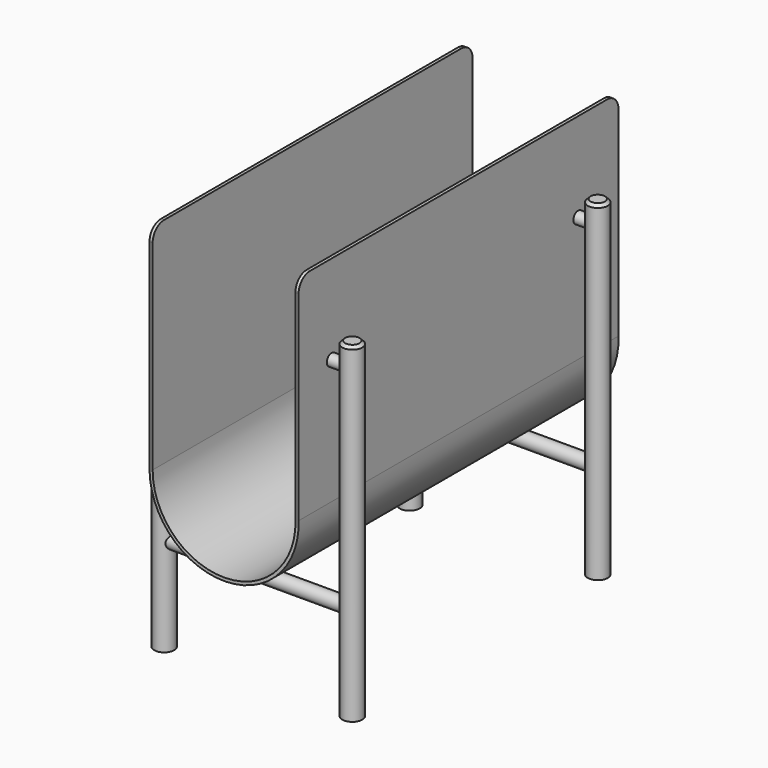
from build123d import *

# Parameters (mm, degrees)
F1_DEPTH      = 355.6
F2_R          = 12.7
F3_R          = 8.89
F4_DEPTH      = 197.358
F4_DEPTH_BACK = 96.52
F5_R          = 6.35
F6_DEPTH      = 82.042
F6_DEPTH_BACK = 84.836
F7_R          = 5.271729
F7_R_2        = 5.260203
F8_DEPTH      = 17.78
F10_SIZE      = 2.54


with BuildPart() as f1:
    # F0 (on Front) → F1 (new body)
    with BuildSketch(Plane.XZ):
        with BuildLine():
            ThreePointArc((63.455196, 65.884964), (1.192692, 0.011202), (-63.5, 63.5))
            Line((-63.5, 63.5), (-63.5, 254))
            Line((-63.5, 254), (-66.294, 254))
            Line((-66.294, 254), (-66.294, 63.5))
            ThreePointArc((-66.294, 63.5), (1.218649, -2.782798), (66.249196, 65.936886))
            Line((66.249196, 65.936886), (66.249196, 256.317355))
            Line((66.249196, 256.317355), (63.455196, 256.384964))
            Line((63.455196, 256.384964), (63.455196, 65.884964))
        make_face()
    extrude(amount=F1_DEPTH)

    # F2
    f2_edges = [f1.edges().sort_by_distance(p)[0] for p in [
        (-64.897, -355.6, 254),
        (64.852196, -355.6, 256.351159),
        (-64.897, 0, 254),
        (64.852196, 0, 256.351159),
    ]]
    fillet(f2_edges, radius=F2_R)


with BuildPart() as f4:
    # F3 (on Top) → F4 (new body, two sides)
    with BuildSketch(Plane.XY) as f4_sk:
        with Locations((-83.414169, -45.011092)):
            Circle(F3_R)
        with Locations((-83.414169, -317.877233)):
            Circle(F3_R)
        with Locations((83.848983, -317.877233)):
            Circle(F3_R)
        with Locations((83.848983, -45.011092)):
            Circle(F3_R)
    extrude(amount=F4_DEPTH)
    extrude(f4_sk.sketch, amount=-F4_DEPTH_BACK)

    # F10
    f10_edges = [f4.edges().sort_by_distance(p)[0] for p in [
        (-92.304169, -45.011092, 197.358),
        (-92.304169, -317.877233, 197.358),
        (74.958983, -317.877233, 197.358),
        (74.958983, -45.011092, 197.358),
    ]]
    chamfer(f10_edges, length=F10_SIZE)


with BuildPart() as f6:
    # F5 (on Right) → F6 (new body, two sides)
    with BuildSketch(Plane.YZ) as f6_sk:
        with Locations((-317.964863, -11.329267)):
            Circle(F5_R)
        with Locations((-45.407446, -11.329267)):
            Circle(F5_R)
    extrude(amount=F6_DEPTH)
    extrude(f6_sk.sketch, amount=-F6_DEPTH_BACK)


with BuildPart() as f8:
    # F7 (on face) → F8 (new body)
    with BuildSketch(Plane.YZ.offset(66.249196)):
        with Locations((-318.899721, 177.156106)):
            Circle(F7_R)
        with Locations((-44.855535, 177.156106)):
            Circle(F7_R_2)
    extrude(amount=F8_DEPTH)


with BuildPart() as f9_1:
    # F9: instance of F8
    add(f8.part.mirror(Plane.YZ))


solid = Compound([f1.part, f4.part, f6.part, f8.part, f9_1.part])
